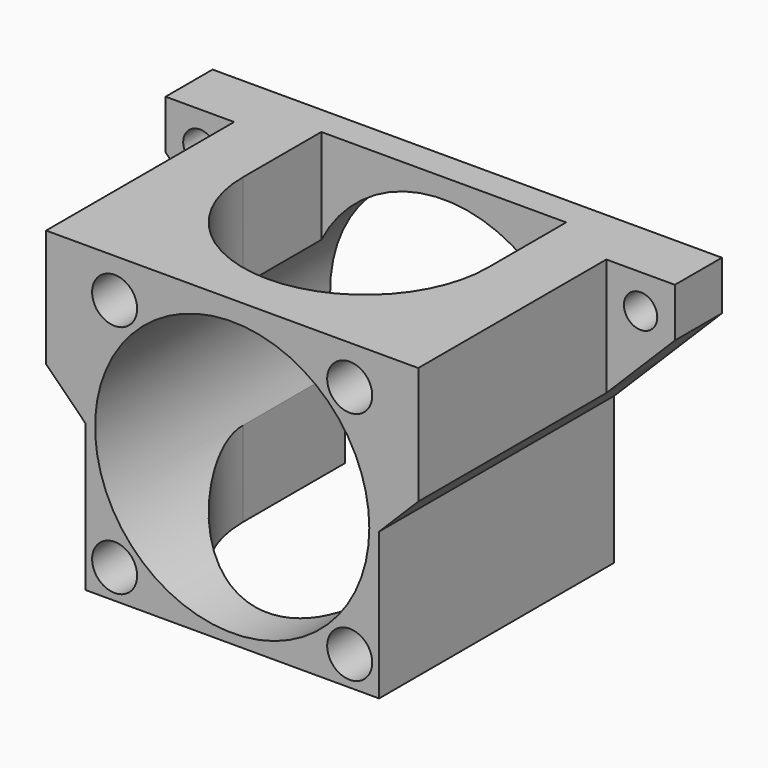
from build123d import *

# Parameters (mm, degrees)
SKETCH088_W     = 38
SKETCH088_H     = 31
PAD029_DEPTH    = 30
POCKET029_DEPTH = 31.001
SKETCH100_R     = 14
POCKET030_DEPTH = 30.001
SKETCH101_W     = 25
SKETCH101_H     = 10
POCKET031_DEPTH = 3
SKETCH102_R     = 2.3
POCKET032_DEPTH = 5.5
SKETCH103_W     = 6
SKETCH103_H     = 31
PAD035_DEPTH    = 6
POCKET033_DEPTH = 30.001
PAD037_DEPTH    = 6
SKETCH107_R     = 1.7
HOLE020_DEPTH   = 25


with BuildPart() as part:
    # Sketch088 → Pad029 (new body)
    with BuildSketch(Plane.XZ.offset(3)):
        with Locations((0, 187.5)):
            Rectangle(SKETCH088_W, SKETCH088_H)
    extrude(amount=-PAD029_DEPTH)

    # Sketch099 (on Face4 of Pad029) → Pocket029 (cut, through all)
    with BuildSketch(Plane(origin=(0, 0, 203), x_dir=(-1, 0, 0), z_dir=(0, 0, 1))):
        with BuildLine():
            Line((-12.5, -14), (-12.5, -24))
            Line((-12.5, -24), (12.5, -24))
            Line((12.5, -14), (12.5, -24))
            ThreePointArc((12.5, -14), (0, -1.5), (-12.5, -14))
        make_face()
    extrude(amount=-POCKET029_DEPTH, mode=Mode.SUBTRACT)

    # Sketch100 (on Face4 of Pocket029) → Pocket030 (cut, through all)
    with BuildSketch(Plane.XZ.offset(3)):
        with Locations((0, 187)):
            Circle(SKETCH100_R)
    extrude(amount=-POCKET030_DEPTH, mode=Mode.SUBTRACT)

    # Sketch101 (on Face5 of Pocket030) → Pocket031 (cut)
    with BuildSketch(Plane(origin=(0, 27, 0), x_dir=(1, 0, 0), z_dir=(0, 1, 0))):
        with Locations((0, -177)):
            Rectangle(SKETCH101_W, SKETCH101_H)
    extrude(amount=-POCKET031_DEPTH, mode=Mode.SUBTRACT)

    # Sketch102 (on Face4 of Pocket031) → Pocket032 (cut)
    with BuildSketch(Plane.XZ.offset(3)):
        with Locations((-12, 199)):
            Circle(SKETCH102_R)
        with Locations((-12, 175)):
            Circle(SKETCH102_R)
        with Locations((12, 175)):
            Circle(SKETCH102_R)
        with Locations((12, 199)):
            Circle(SKETCH102_R)
    extrude(amount=-POCKET032_DEPTH, mode=Mode.SUBTRACT)

    # Sketch103 → Pad035 (join)
    with BuildSketch(Plane.XZ.offset(-27)):
        with Locations((-23, 187.5)):
            Rectangle(SKETCH103_W, SKETCH103_H)
        with Locations((23, 187.5)):
            Rectangle(SKETCH103_W, SKETCH103_H)
    extrude(amount=PAD035_DEPTH)

    # Sketch104 → Pocket033 (cut, through all)
    with BuildSketch(Plane.XZ.offset(-27)):
        Polygon((-26, 197.999996), (-15, 187), (-15, 172), (-26, 172), align=None)
        Polygon((26, 197.999996), (15, 187), (15, 172), (26, 172), align=None)
    extrude(amount=POCKET033_DEPTH, mode=Mode.SUBTRACT)

    # Sketch106 → Pad037 (join)
    with BuildSketch(Plane.XZ.offset(-27)):
        Polygon((-19, 203), (-26, 203), (-26, 198), (-19, 191), align=None)
        Polygon((19, 203), (26, 203), (26, 198), (19, 191), align=None)
    extrude(amount=PAD037_DEPTH)

    # Sketch107 (on Face4 of Pad037) → Hole020 (cut)
    with BuildSketch(Plane.XZ.offset(-21)):
        with Locations((-22.5, 199.5)):
            Circle(SKETCH107_R)
        with Locations((22.5, 199.5)):
            Circle(SKETCH107_R)
    extrude(amount=-HOLE020_DEPTH, mode=Mode.SUBTRACT)


with BuildPart() as part_1:
    # Body012 placement: moved
    add(part.part.moved(Location((0, 105, 0))))


solid = part_1.part
